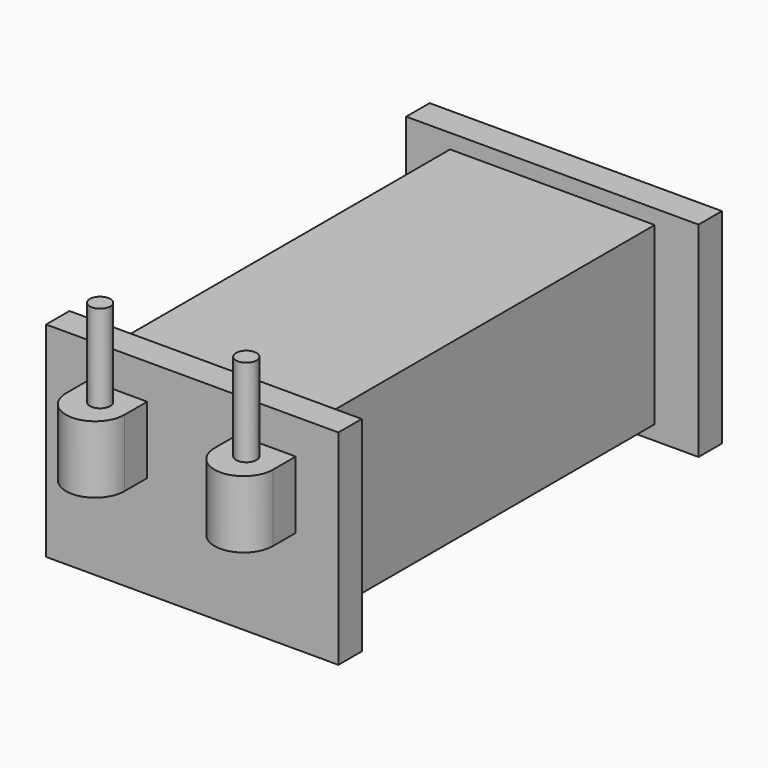
from build123d import *

# Parameters (mm, degrees)
SKETCH173_W  = 7
SKETCH173_H  = 14.4
PAD115_DEPTH = 3
SKETCH181_W  = 10
SKETCH181_H  = 7
PAD116_DEPTH = 1
SKETCH174_W  = 10
SKETCH174_H  = 7
PAD120_DEPTH = 1
PAD127_DEPTH = 2.3
SKETCH177_R  = 0.35
PAD123_DEPTH = 3


with BuildPart() as part:
    # Sketch173 → Pad115 (new body, symmetric)
    with BuildSketch(Plane.XY):
        with Locations((0, -0.37169)):
            Rectangle(SKETCH173_W, SKETCH173_H)
    extrude(amount=PAD115_DEPTH, both=True)

    # Sketch181 (on Face3 of Pad115) → Pad116 (join)
    with BuildSketch(Plane.XZ.offset(7.57169)):
        Rectangle(SKETCH181_W, SKETCH181_H)
    extrude(amount=PAD116_DEPTH)

    # Sketch174 (on Face11 of Pad116) → Pad120 (join)
    with BuildSketch(Plane(origin=(0, 6.82831, 0), x_dir=(-1, 0, 0), z_dir=(0, 1, 0))):
        Rectangle(SKETCH174_W, SKETCH174_H)
    extrude(amount=PAD120_DEPTH)

    # Sketch182 → Pad127 (join)
    with BuildSketch(Plane.XY):
        with BuildLine():
            ThreePointArc((-3.539731, -9.545275), (-2.539731, -10.545275), (-1.539731, -9.545275))
            Line((-1.539731, -8.57169), (-1.539731, -9.545275))
            Line((-3.539731, -8.57169), (-1.539731, -8.57169))
            Line((-3.539731, -8.57169), (-3.539731, -9.545275))
        make_face()
        with BuildLine():
            ThreePointArc((1.539731, -9.545275), (2.539731, -10.545275), (3.539731, -9.545275))
            Line((3.539731, -8.57169), (3.539731, -9.545275))
            Line((3.539731, -8.57169), (1.539731, -8.57169))
            Line((1.539731, -8.57169), (1.539731, -9.545275))
        make_face()
    extrude(amount=PAD127_DEPTH)

    # Sketch177 (on Face19 of Pad127) → Pad123 (join)
    with BuildSketch(Plane.XY.offset(2.3)):
        with Locations((-2.5, -9.384607)):
            Circle(SKETCH177_R)
        with Locations((2.5, -9.384607)):
            Circle(SKETCH177_R)
    extrude(amount=PAD123_DEPTH)


with BuildPart() as part_1:
    # Body018 placement: moved
    add(part.part.moved(Location((3.5, -13, 0))))


solid = part_1.part
